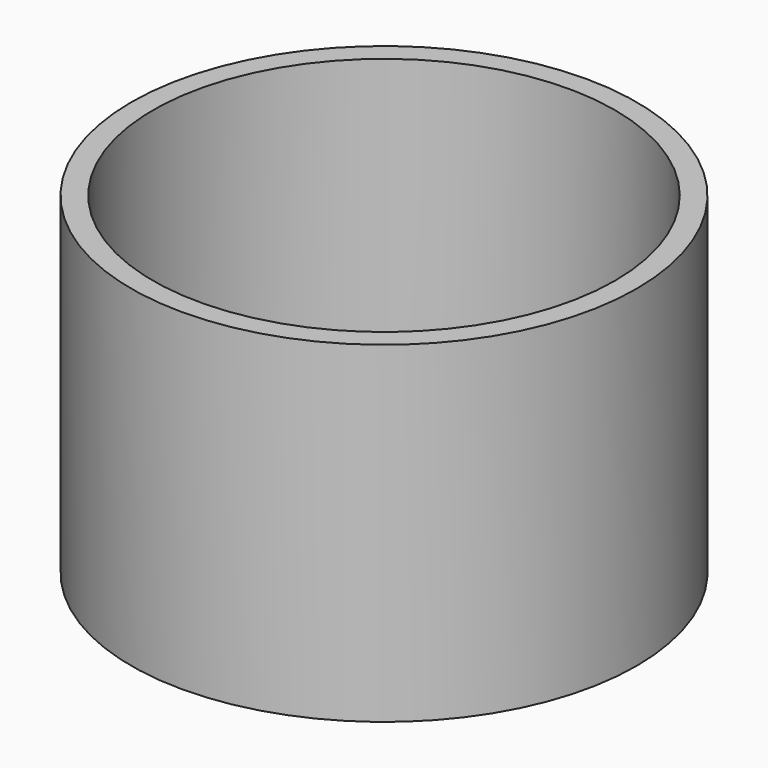
from build123d import *

# Parameters (mm, degrees)
SKETCH_R           = 35
PAD_DEPTH          = 3
SKETCH001_R        = 1.2
HOLE_DEPTH         = 201.081792
POLARPATTERN_COUNT = 4
SKETCH002_R        = 35
SKETCH002_R_2      = 32
PAD001_DEPTH       = 43


with BuildPart() as part:
    # Sketch → Pad (new body)
    with BuildSketch(Plane.XY):
        Circle(SKETCH_R)
        with BuildLine():
            ThreePointArc((9.27573, -5.912769), (0, 11), (-9.27573, -5.912769))
            Line((-17.657478, -17.697838), (-9.27573, -5.912769))
            ThreePointArc((17.657478, -17.697838), (0, 25), (-17.657478, -17.697838))
            Line((9.27573, -5.912769), (17.657478, -17.697838))
        make_face(mode=Mode.SUBTRACT)
    extrude(amount=PAD_DEPTH)

    # Sketch001 (on Face7 of Pad) → Hole (cut, through all)
    with BuildSketch(Plane.XY.offset(3)):
        with Locations((0, 8)):
            Circle(SKETCH001_R)
    hole = extrude(amount=-HOLE_DEPTH, mode=Mode.SUBTRACT)

    # PolarPattern: Hole ×4 about axis
    polarpattern_axis = Axis((0, 0, 0), (0, 0, 1))
    for i in range(1, POLARPATTERN_COUNT):
        add(hole.rotate(polarpattern_axis, i * 360 / POLARPATTERN_COUNT), mode=Mode.SUBTRACT)

    # Sketch002 (on Face3 of PolarPattern) → Pad001 (join)
    with BuildSketch(Plane.XY.offset(3)):
        Circle(SKETCH002_R)
        Circle(SKETCH002_R_2, mode=Mode.SUBTRACT)
    extrude(amount=PAD001_DEPTH)


solid = part.part
